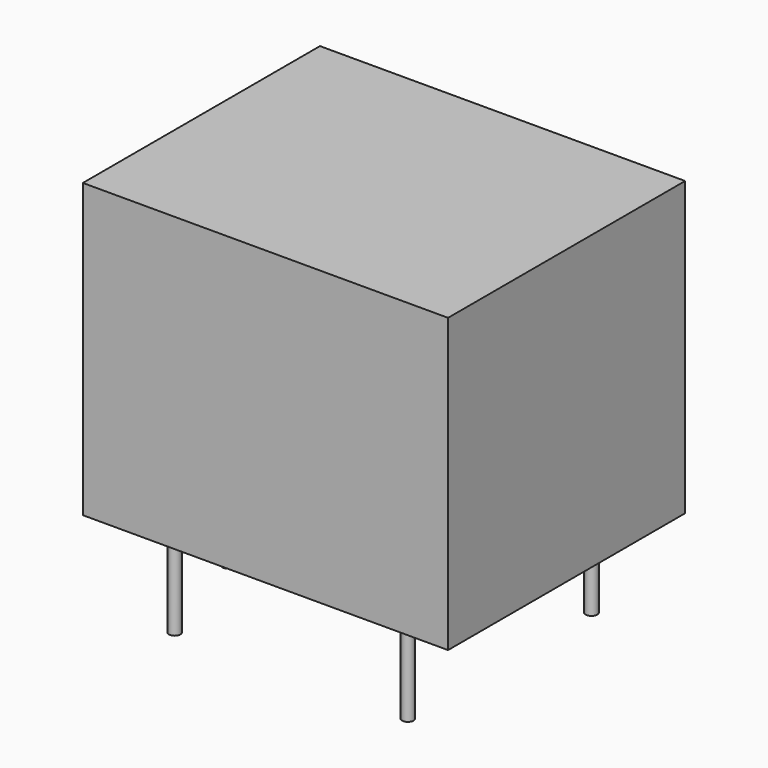
from build123d import *

# Parameters (mm, degrees)
BINDER_W     = 15.5
BINDER_H     = 19.1
PAD_DEPTH    = 15.3
BINDER001_R  = 0.3
PAD001_DEPTH = 5


with BuildPart() as part:
    # Binder → Pad (new body)
    with BuildSketch(Plane(origin=(9.55, 0, 0), x_dir=(0, 1, 0), z_dir=(0, 0, 1))):
        Rectangle(BINDER_W, BINDER_H)
    extrude(amount=PAD_DEPTH)

    # Binder001 → Pad001 (join)
    with BuildSketch(Plane(origin=(15.6, -6, 0), x_dir=(0, 1, 0), z_dir=(0, 0, 1))):
        Circle(BINDER001_R)
        with Locations((12, 0)):
            Circle(BINDER001_R)
        with Locations((0, 12.2)):
            Circle(BINDER001_R)
        with Locations((12, 12.2)):
            Circle(BINDER001_R)
        with Locations((6, 14.2)):
            Circle(BINDER001_R)
    extrude(amount=-PAD001_DEPTH)


solid = part.part
